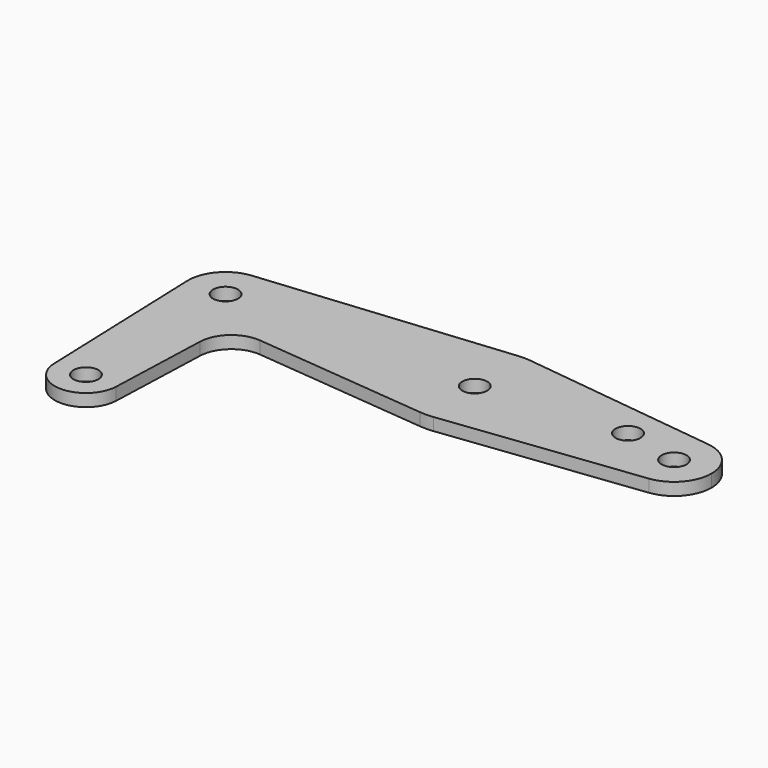
from build123d import *

# Parameters (mm, degrees)
F0_R     = 3.175
F1_DEPTH = 3.175
F2_R     = 8.1915


with BuildPart() as f1:
    # F0 (on Top) → F1 (new body)
    with BuildSketch(Plane.XY):
        with BuildLine():
            ThreePointArc((7.9324362036, -44.7334821429), (7.9362339499, -44.5917636831), (7.9375, -44.45))
            ThreePointArc((7.9375, -44.45), (-0.1417636831, -36.5137660501), (-7.9324362036, -44.7334821429))
            ThreePointArc((-7.9324362036, -44.7334821429), (0, -52.3875), (7.9324362036, -44.7334821429))
        make_face()
        with Locations((0, -44.45)):
            Circle(F0_R, mode=Mode.SUBTRACT)
        with BuildLine():
            ThreePointArc((-7.9324362036, -44.7334821429), (-0.1417636831, -36.5137660501), (7.9375, -44.45))
            ThreePointArc((7.9375, -44.45), (7.9362339499, -44.5917636831), (7.9324362036, -44.7334821429))
            Line((7.9324362036, -44.7334821429), (9.157542126, -10.4524001899))
            Line((9.157542126, -10.4524001899), (-0.9144, -9.481007206))
            ThreePointArc((-0.9144, -9.481007206), (-6.9355783144, -6.5286582423), (-9.5189234444, -0.3401785714))
            Line((-9.5189234444, -0.3401785714), (-7.9324362036, -44.7334821429))
        make_face()
        with BuildLine():
            ThreePointArc((-0.9144, 9.481007206), (-7.1643200684, 6.2767940031), (-9.5189234444, -0.3401785714))
            ThreePointArc((-9.5189234444, -0.3401785714), (-6.9355783144, -6.5286582423), (-0.9144, -9.481007206))
            ThreePointArc((-0.9144, -9.481007206), (6.2767940028, -7.1643200687), (9.5189234443, -0.3401785724))
            ThreePointArc((9.5189234443, -0.3401785724), (9.5234807399, -0.1701164202), (9.525, 0))
            ThreePointArc((9.525, 0), (6.4037475356, 7.0510738544), (-0.9144, 9.481007206))
        make_face()
        Circle(F0_R, mode=Mode.SUBTRACT)
        with BuildLine():
            Line((-0.9144, -9.481007206), (9.157542126, -10.4524001899))
            Line((9.157542126, -10.4524001899), (9.5189234443, -0.3401785724))
            ThreePointArc((9.5189234443, -0.3401785724), (6.2767940028, -7.1643200687), (-0.9144, -9.481007206))
        make_face()
        with BuildLine():
            Line((9.5189234443, -0.3401785724), (9.157542126, -10.4524001899))
            Line((9.157542126, -10.4524001899), (62.000384, -15.5488518178))
            ThreePointArc((62.000384, -15.5488518178), (47.879, 0), (62.000384, 15.5488518178))
            Line((62.000384, 15.5488518178), (-0.9144, 9.481007206))
            ThreePointArc((-0.9144, 9.481007206), (6.4037475356, 7.0510738544), (9.525, 0))
            ThreePointArc((9.525, 0), (9.5234807399, -0.1701164202), (9.5189234443, -0.3401785724))
        make_face()
        with BuildLine():
            ThreePointArc((62.000384, 15.5488518178), (47.879, 0), (62.000384, -15.5488518178))
            ThreePointArc((62.000384, -15.5488518178), (63.6885550396, -15.6198619711), (65.37452, -15.5081209619))
            ThreePointArc((65.37452, -15.5081209619), (75.1896860078, -10.36179917), (79.121, 0))
            ThreePointArc((79.121, 0), (75.1896860078, 10.36179917), (65.37452, 15.5081209619))
            ThreePointArc((65.37452, 15.5081209619), (63.6885550396, 15.6198619711), (62.000384, 15.5488518178))
        make_face()
        with Locations((63.5, 0)):
            Circle(F0_R, mode=Mode.SUBTRACT)
        with BuildLine():
            ThreePointArc((79.121, 0), (75.1896860078, -10.36179917), (65.37452, -15.5081209619))
            Line((65.37452, -15.5081209619), (115.443, -9.4561713182))
            ThreePointArc((115.443, -9.4561713182), (104.775, 0), (115.443, 9.4561713182))
            Line((115.443, 9.4561713182), (65.37452, 15.5081209619))
            ThreePointArc((65.37452, 15.5081209619), (75.1896860078, 10.36179917), (79.121, 0))
        make_face()
        with Locations((100.0125, 3.175)):
            Circle(F0_R, mode=Mode.SUBTRACT)
        with BuildLine():
            ThreePointArc((115.443, 9.4561713182), (104.775, 0), (115.443, -9.4561713182))
            ThreePointArc((115.443, -9.4561713182), (121.4278573218, -6.3181702256), (123.825, 0))
            ThreePointArc((123.825, 0), (121.4278573218, 6.3181702256), (115.443, 9.4561713182))
        make_face()
        with Locations((114.3, 0)):
            Circle(F0_R, mode=Mode.SUBTRACT)
    extrude(amount=F1_DEPTH)

    # F2
    f2_edges = [f1.edges().sort_by_distance(p)[0] for p in [
        (9.157542, -10.4524, 1.5875),
    ]]
    fillet(f2_edges, radius=F2_R)


solid = f1.part
